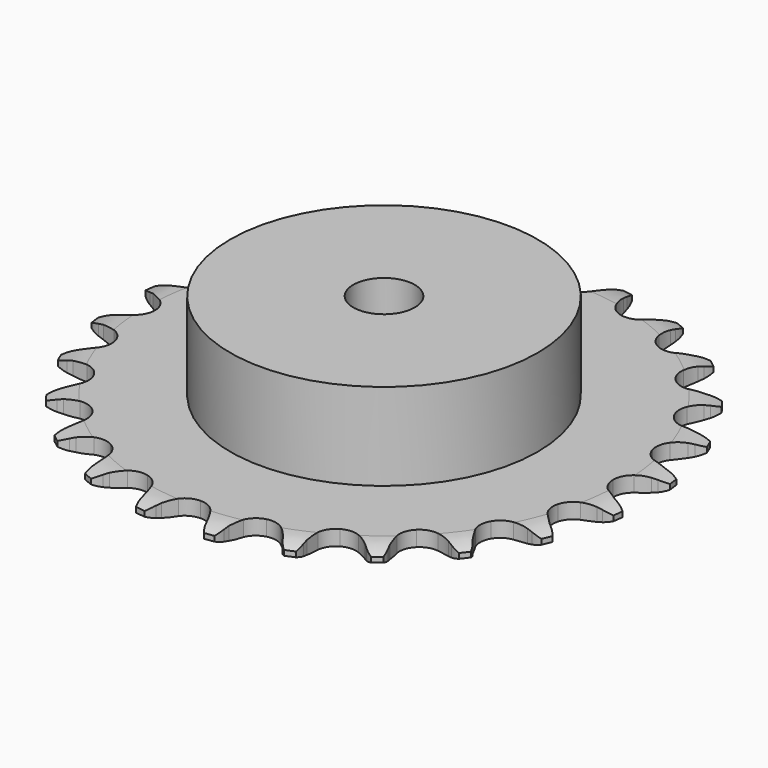
from build123d import *

# Parameters (mm, degrees)
PAD_DEPTH         = 3
SKETCH001_R       = 30
PAD001_DEPTH      = 20
SKETCH002_R       = 6
POCKET_DEPTH      = 0.001
POCKET_DEPTH_BACK = 20.001


with BuildPart() as part:
    # Sprocket → Pad (new body)
    with BuildSketch(Plane.XY):
        with BuildLine():
            ThreePointArc((-6.880361, 52.261529), (-5.693033, 51.063167), (-4.863176, 49.594441))
            Line((-4.863176, 49.594441), (-4.486878, 48.655213))
            ThreePointArc((-4.486878, 48.655213), (-3.885516, 47.408459), (-3.119842, 46.255301))
            ThreePointArc((-3.119842, 46.255301), (-1.739289, 45.12231), (0, 44.716765))
            ThreePointArc((0, 44.716765), (1.739289, 45.12231), (3.119842, 46.255301))
            ThreePointArc((3.119842, 46.255301), (3.885516, 47.408459), (4.486878, 48.655213))
            Line((4.486878, 48.655213), (4.863176, 49.594441))
            ThreePointArc((4.863176, 49.594441), (5.693033, 51.063167), (6.880361, 52.261529))
            ThreePointArc((6.880361, 52.261529), (7.717073, 50.796697), (8.138518, 49.163234))
            Line((8.138518, 49.163234), (8.258904, 48.158616))
            ThreePointArc((8.258904, 48.158616), (8.517092, 46.798701), (8.958217, 45.486664))
            ThreePointArc((8.958217, 45.486664), (9.998489, 44.034966), (11.57355, 43.193078))
            ThreePointArc((11.57355, 43.193078), (13.358538, 43.134643), (14.985289, 43.871715))
            Line((14.985289, 43.871715), (16.926887, 45.836037))
            ThreePointArc((16.926887, 45.836037), (17.220055, 46.248529), (17.533454, 46.645869))
            ThreePointArc((17.533454, 46.645869), (18.715168, 47.849766), (20.172197, 48.699992))
            ThreePointArc((20.172197, 48.699992), (20.601272, 47.068516), (20.585586, 45.381634))
            Line((20.585586, 45.381634), (20.441856, 44.380089))
            ThreePointArc((20.441856, 44.380089), (20.339274, 42.999688), (20.425788, 41.618186))
            ThreePointArc((20.425788, 41.618186), (21.054886, 39.946711), (22.358382, 38.725854))
            ThreePointArc((22.358382, 38.725854), (24.067424, 38.207422), (25.829513, 38.498344))
            Line((25.829513, 38.498344), (28.213357, 39.893211))
            ThreePointArc((28.213357, 39.893211), (28.603296, 40.21577), (29.008855, 40.518457))
            ThreePointArc((29.008855, 40.518457), (30.461895, 41.375483), (32.089332, 41.819631))
            ThreePointArc((32.089332, 41.819631), (32.081529, 40.132694), (31.62978, 38.50735))
            Line((31.62978, 38.50735), (31.231729, 37.577133))
            ThreePointArc((31.231729, 37.577133), (30.775369, 36.270317), (30.501375, 34.913498))
            ThreePointArc((30.501375, 34.913498), (30.676428, 33.136155), (31.619527, 31.619527))
            ThreePointArc((31.619527, 31.619527), (33.136155, 30.676428), (34.913498, 30.501375))
            Line((34.913498, 30.501375), (37.577133, 31.231729))
            ThreePointArc((37.577133, 31.231729), (38.03727, 31.442373), (38.50735, 31.62978))
            ThreePointArc((38.50735, 31.62978), (40.132694, 32.081529), (41.819631, 32.089332))
            ThreePointArc((41.819631, 32.089332), (41.375483, 30.461895), (40.518457, 29.008855))
            Line((40.518457, 29.008855), (39.893211, 28.213357))
            ThreePointArc((39.893211, 28.213357), (39.114172, 27.069185), (38.498344, 25.829513))
            ThreePointArc((38.498344, 25.829513), (38.207422, 24.067424), (38.725854, 22.358382))
            ThreePointArc((38.725854, 22.358382), (39.946711, 21.054886), (41.618186, 20.425788))
            Line((41.618186, 20.425788), (44.380089, 20.441856))
            ThreePointArc((44.380089, 20.441856), (44.879066, 20.52623), (45.381634, 20.585586))
            ThreePointArc((45.381634, 20.585586), (47.068516, 20.601272), (48.699992, 20.172197))
            ThreePointArc((48.699992, 20.172197), (47.849766, 18.715168), (46.645869, 17.533454))
            Line((46.645869, 17.533454), (45.836037, 16.926887))
            ThreePointArc((45.836037, 16.926887), (44.78741, 16.023332), (43.871715, 14.985289))
            ThreePointArc((43.871715, 14.985289), (43.134643, 13.358538), (43.193078, 11.57355))
            ThreePointArc((43.193078, 11.57355), (44.034966, 9.998489), (45.486664, 8.958217))
            Line((45.486664, 8.958217), (48.158616, 8.258904))
            ThreePointArc((48.158616, 8.258904), (48.662428, 8.211259), (49.163234, 8.138518))
            ThreePointArc((49.163234, 8.138518), (50.796697, 7.717073), (52.261529, 6.880361))
            ThreePointArc((52.261529, 6.880361), (51.063167, 5.693033), (49.594441, 4.863176))
            Line((49.594441, 4.863176), (48.655213, 4.486878))
            ThreePointArc((48.655213, 4.486878), (47.408459, 3.885516), (46.255301, 3.119842))
            ThreePointArc((46.255301, 3.119842), (45.12231, 1.739289), (44.716765, 0))
            ThreePointArc((44.716765, 0), (45.12231, -1.739289), (46.255301, -3.119842))
            Line((46.255301, -3.119842), (48.655213, -4.486878))
            ThreePointArc((48.655213, -4.486878), (49.129527, -4.663296), (49.594441, -4.863176))
            ThreePointArc((49.594441, -4.863176), (51.063167, -5.693033), (52.261529, -6.880361))
            ThreePointArc((52.261529, -6.880361), (50.796697, -7.717073), (49.163234, -8.138518))
            Line((49.163234, -8.138518), (48.158616, -8.258904))
            ThreePointArc((48.158616, -8.258904), (46.798701, -8.517092), (45.486664, -8.958217))
            ThreePointArc((45.486664, -8.958217), (44.034966, -9.998489), (43.193078, -11.57355))
            ThreePointArc((43.193078, -11.57355), (43.134643, -13.358538), (43.871715, -14.985289))
            Line((43.871715, -14.985289), (45.836037, -16.926887))
            ThreePointArc((45.836037, -16.926887), (46.248529, -17.220055), (46.645869, -17.533454))
            ThreePointArc((46.645869, -17.533454), (47.849766, -18.715168), (48.699992, -20.172197))
            ThreePointArc((48.699992, -20.172197), (47.068516, -20.601272), (45.381634, -20.585586))
            Line((45.381634, -20.585586), (44.380089, -20.441856))
            ThreePointArc((44.380089, -20.441856), (42.999688, -20.339274), (41.618186, -20.425788))
            ThreePointArc((41.618186, -20.425788), (39.946711, -21.054886), (38.725854, -22.358382))
            ThreePointArc((38.725854, -22.358382), (38.207422, -24.067424), (38.498344, -25.829513))
            Line((38.498344, -25.829513), (39.893211, -28.213357))
            ThreePointArc((39.893211, -28.213357), (40.21577, -28.603296), (40.518457, -29.008855))
            ThreePointArc((40.518457, -29.008855), (41.375483, -30.461895), (41.819631, -32.089332))
            ThreePointArc((41.819631, -32.089332), (40.132694, -32.081529), (38.50735, -31.62978))
            Line((38.50735, -31.62978), (37.577133, -31.231729))
            ThreePointArc((37.577133, -31.231729), (36.270317, -30.775369), (34.913498, -30.501375))
            ThreePointArc((34.913498, -30.501375), (33.136155, -30.676428), (31.619527, -31.619527))
            ThreePointArc((31.619527, -31.619527), (30.676428, -33.136155), (30.501375, -34.913498))
            Line((30.501375, -34.913498), (31.231729, -37.577133))
            ThreePointArc((31.231729, -37.577133), (31.442373, -38.03727), (31.62978, -38.50735))
            ThreePointArc((31.62978, -38.50735), (32.081529, -40.132694), (32.089332, -41.819631))
            ThreePointArc((32.089332, -41.819631), (30.461895, -41.375483), (29.008855, -40.518457))
            Line((29.008855, -40.518457), (28.213357, -39.893211))
            ThreePointArc((28.213357, -39.893211), (27.069185, -39.114172), (25.829513, -38.498344))
            ThreePointArc((25.829513, -38.498344), (24.067424, -38.207422), (22.358382, -38.725854))
            ThreePointArc((22.358382, -38.725854), (21.054886, -39.946711), (20.425788, -41.618186))
            Line((20.425788, -41.618186), (20.441856, -44.380089))
            ThreePointArc((20.441856, -44.380089), (20.52623, -44.879066), (20.585586, -45.381634))
            ThreePointArc((20.585586, -45.381634), (20.601272, -47.068516), (20.172197, -48.699992))
            ThreePointArc((20.172197, -48.699992), (18.715168, -47.849766), (17.533454, -46.645869))
            Line((17.533454, -46.645869), (16.926887, -45.836037))
            ThreePointArc((16.926887, -45.836037), (16.023332, -44.78741), (14.985289, -43.871715))
            ThreePointArc((14.985289, -43.871715), (13.358538, -43.134643), (11.57355, -43.193078))
            ThreePointArc((11.57355, -43.193078), (9.998489, -44.034966), (8.958217, -45.486664))
            Line((8.958217, -45.486664), (8.258904, -48.158616))
            ThreePointArc((8.258904, -48.158616), (8.211259, -48.662428), (8.138518, -49.163234))
            ThreePointArc((8.138518, -49.163234), (7.717073, -50.796697), (6.880361, -52.261529))
            ThreePointArc((6.880361, -52.261529), (5.693033, -51.063167), (4.863176, -49.594441))
            Line((4.863176, -49.594441), (4.486878, -48.655213))
            ThreePointArc((4.486878, -48.655213), (3.885516, -47.408459), (3.119842, -46.255301))
            ThreePointArc((3.119842, -46.255301), (1.739289, -45.12231), (0, -44.716765))
            ThreePointArc((0, -44.716765), (-1.739289, -45.12231), (-3.119842, -46.255301))
            Line((-3.119842, -46.255301), (-4.486878, -48.655213))
            ThreePointArc((-4.486878, -48.655213), (-4.663296, -49.129527), (-4.863176, -49.594441))
            ThreePointArc((-4.863176, -49.594441), (-5.693033, -51.063167), (-6.880361, -52.261529))
            ThreePointArc((-6.880361, -52.261529), (-7.717073, -50.796697), (-8.138518, -49.163234))
            Line((-8.138518, -49.163234), (-8.258904, -48.158616))
            ThreePointArc((-8.258904, -48.158616), (-8.517092, -46.798701), (-8.958217, -45.486664))
            ThreePointArc((-8.958217, -45.486664), (-9.998489, -44.034966), (-11.57355, -43.193078))
            ThreePointArc((-11.57355, -43.193078), (-13.358538, -43.134643), (-14.985289, -43.871715))
            Line((-14.985289, -43.871715), (-16.926887, -45.836037))
            ThreePointArc((-16.926887, -45.836037), (-17.220055, -46.248529), (-17.533454, -46.645869))
            ThreePointArc((-17.533454, -46.645869), (-18.715168, -47.849766), (-20.172197, -48.699992))
            ThreePointArc((-20.172197, -48.699992), (-20.601272, -47.068516), (-20.585586, -45.381634))
            Line((-20.585586, -45.381634), (-20.441856, -44.380089))
            ThreePointArc((-20.441856, -44.380089), (-20.339274, -42.999688), (-20.425788, -41.618186))
            ThreePointArc((-20.425788, -41.618186), (-21.054886, -39.946711), (-22.358382, -38.725854))
            ThreePointArc((-22.358382, -38.725854), (-24.067424, -38.207422), (-25.829513, -38.498344))
            Line((-25.829513, -38.498344), (-28.213357, -39.893211))
            ThreePointArc((-28.213357, -39.893211), (-28.603296, -40.21577), (-29.008855, -40.518457))
            ThreePointArc((-29.008855, -40.518457), (-30.461895, -41.375483), (-32.089332, -41.819631))
            ThreePointArc((-32.089332, -41.819631), (-32.081529, -40.132694), (-31.62978, -38.50735))
            Line((-31.62978, -38.50735), (-31.231729, -37.577133))
            ThreePointArc((-31.231729, -37.577133), (-30.775369, -36.270317), (-30.501375, -34.913498))
            ThreePointArc((-30.501375, -34.913498), (-30.676428, -33.136155), (-31.619527, -31.619527))
            ThreePointArc((-31.619527, -31.619527), (-33.136155, -30.676428), (-34.913498, -30.501375))
            Line((-34.913498, -30.501375), (-37.577133, -31.231729))
            ThreePointArc((-37.577133, -31.231729), (-38.03727, -31.442373), (-38.50735, -31.62978))
            ThreePointArc((-38.50735, -31.62978), (-40.132694, -32.081529), (-41.819631, -32.089332))
            ThreePointArc((-41.819631, -32.089332), (-41.375483, -30.461895), (-40.518457, -29.008855))
            Line((-40.518457, -29.008855), (-39.893211, -28.213357))
            ThreePointArc((-39.893211, -28.213357), (-39.114172, -27.069185), (-38.498344, -25.829513))
            ThreePointArc((-38.498344, -25.829513), (-38.207422, -24.067424), (-38.725854, -22.358382))
            ThreePointArc((-38.725854, -22.358382), (-39.946711, -21.054886), (-41.618186, -20.425788))
            Line((-41.618186, -20.425788), (-44.380089, -20.441856))
            ThreePointArc((-44.380089, -20.441856), (-44.879066, -20.52623), (-45.381634, -20.585586))
            ThreePointArc((-45.381634, -20.585586), (-47.068516, -20.601272), (-48.699992, -20.172197))
            ThreePointArc((-48.699992, -20.172197), (-47.849766, -18.715168), (-46.645869, -17.533454))
            Line((-46.645869, -17.533454), (-45.836037, -16.926887))
            ThreePointArc((-45.836037, -16.926887), (-44.78741, -16.023332), (-43.871715, -14.985289))
            ThreePointArc((-43.871715, -14.985289), (-43.134643, -13.358538), (-43.193078, -11.57355))
            ThreePointArc((-43.193078, -11.57355), (-44.034966, -9.998489), (-45.486664, -8.958217))
            Line((-45.486664, -8.958217), (-48.158616, -8.258904))
            ThreePointArc((-48.158616, -8.258904), (-48.662428, -8.211259), (-49.163234, -8.138518))
            ThreePointArc((-49.163234, -8.138518), (-50.796697, -7.717073), (-52.261529, -6.880361))
            ThreePointArc((-52.261529, -6.880361), (-51.063167, -5.693033), (-49.594441, -4.863176))
            Line((-49.594441, -4.863176), (-48.655213, -4.486878))
            ThreePointArc((-48.655213, -4.486878), (-47.408459, -3.885516), (-46.255301, -3.119842))
            ThreePointArc((-46.255301, -3.119842), (-45.12231, -1.739289), (-44.716765, 0))
            ThreePointArc((-44.716765, 0), (-45.12231, 1.739289), (-46.255301, 3.119842))
            Line((-46.255301, 3.119842), (-48.655213, 4.486878))
            ThreePointArc((-48.655213, 4.486878), (-49.129527, 4.663296), (-49.594441, 4.863176))
            ThreePointArc((-49.594441, 4.863176), (-51.063167, 5.693033), (-52.261529, 6.880361))
            ThreePointArc((-52.261529, 6.880361), (-50.796697, 7.717073), (-49.163234, 8.138518))
            Line((-49.163234, 8.138518), (-48.158616, 8.258904))
            ThreePointArc((-48.158616, 8.258904), (-46.798701, 8.517092), (-45.486664, 8.958217))
            ThreePointArc((-45.486664, 8.958217), (-44.034966, 9.998489), (-43.193078, 11.57355))
            ThreePointArc((-43.193078, 11.57355), (-43.134643, 13.358538), (-43.871715, 14.985289))
            Line((-43.871715, 14.985289), (-45.836037, 16.926887))
            ThreePointArc((-45.836037, 16.926887), (-46.248529, 17.220055), (-46.645869, 17.533454))
            ThreePointArc((-46.645869, 17.533454), (-47.849766, 18.715168), (-48.699992, 20.172197))
            ThreePointArc((-48.699992, 20.172197), (-47.068516, 20.601272), (-45.381634, 20.585586))
            Line((-45.381634, 20.585586), (-44.380089, 20.441856))
            ThreePointArc((-44.380089, 20.441856), (-42.999688, 20.339274), (-41.618186, 20.425788))
            ThreePointArc((-41.618186, 20.425788), (-39.946711, 21.054886), (-38.725854, 22.358382))
            ThreePointArc((-38.725854, 22.358382), (-38.207422, 24.067424), (-38.498344, 25.829513))
            Line((-38.498344, 25.829513), (-39.893211, 28.213357))
            ThreePointArc((-39.893211, 28.213357), (-40.21577, 28.603296), (-40.518457, 29.008855))
            ThreePointArc((-40.518457, 29.008855), (-41.375483, 30.461895), (-41.819631, 32.089332))
            ThreePointArc((-41.819631, 32.089332), (-40.132694, 32.081529), (-38.50735, 31.62978))
            Line((-38.50735, 31.62978), (-37.577133, 31.231729))
            ThreePointArc((-37.577133, 31.231729), (-36.270317, 30.775369), (-34.913498, 30.501375))
            ThreePointArc((-34.913498, 30.501375), (-33.136155, 30.676428), (-31.619527, 31.619527))
            ThreePointArc((-31.619527, 31.619527), (-30.676428, 33.136155), (-30.501375, 34.913498))
            Line((-30.501375, 34.913498), (-31.231729, 37.577133))
            ThreePointArc((-31.231729, 37.577133), (-31.442373, 38.03727), (-31.62978, 38.50735))
            ThreePointArc((-31.62978, 38.50735), (-32.081529, 40.132694), (-32.089332, 41.819631))
            ThreePointArc((-32.089332, 41.819631), (-30.461895, 41.375483), (-29.008855, 40.518457))
            Line((-29.008855, 40.518457), (-28.213357, 39.893211))
            ThreePointArc((-28.213357, 39.893211), (-27.069185, 39.114172), (-25.829513, 38.498344))
            ThreePointArc((-25.829513, 38.498344), (-24.067424, 38.207422), (-22.358382, 38.725854))
            ThreePointArc((-22.358382, 38.725854), (-21.054886, 39.946711), (-20.425788, 41.618186))
            Line((-20.425788, 41.618186), (-20.441856, 44.380089))
            ThreePointArc((-20.441856, 44.380089), (-20.52623, 44.879066), (-20.585586, 45.381634))
            ThreePointArc((-20.585586, 45.381634), (-20.601272, 47.068516), (-20.172197, 48.699992))
            ThreePointArc((-20.172197, 48.699992), (-18.715168, 47.849766), (-17.533454, 46.645869))
            Line((-17.533454, 46.645869), (-16.926887, 45.836037))
            ThreePointArc((-16.926887, 45.836037), (-16.023332, 44.78741), (-14.985289, 43.871715))
            ThreePointArc((-14.985289, 43.871715), (-13.358538, 43.134643), (-11.57355, 43.193078))
            ThreePointArc((-11.57355, 43.193078), (-9.998489, 44.034966), (-8.958217, 45.486664))
            Line((-8.958217, 45.486664), (-8.258904, 48.158616))
            ThreePointArc((-8.258904, 48.158616), (-8.211259, 48.662428), (-8.138518, 49.163234))
            ThreePointArc((-8.138518, 49.163234), (-7.717073, 50.796697), (-6.880361, 52.261529))
        make_face()
    extrude(amount=PAD_DEPTH)

    # Sketch → Groove (revolve, cut)
    with BuildSketch(Plane.XZ):
        with BuildLine():
            Line((46.5, 0), (51.5, 0))
            Line((56.5, 0), (51.5, 0))
            Line((56.5, 3), (56.5, 0))
            Line((51.5, 3), (56.5, 3))
            Line((46.5, 3), (51.5, 3))
            ThreePointArc((51.5, 2), (49.04951, 2.747549), (46.5, 3))
            Line((51.5, 1), (51.5, 2))
            ThreePointArc((46.5, 0), (49.04951, 0.252451), (51.5, 1))
        make_face()
    revolve(axis=Axis((0, 0, 0), (0, 0, 1)), mode=Mode.SUBTRACT)

    # Sketch001 → Pad001 (join)
    with BuildSketch(Plane.XY):
        Circle(SKETCH001_R)
    extrude(amount=PAD001_DEPTH)

    # Sketch002 → Pocket (cut, two sides)
    with BuildSketch(Plane.XY) as pocket_sk:
        Circle(SKETCH002_R)
    extrude(amount=-POCKET_DEPTH, mode=Mode.SUBTRACT)
    extrude(pocket_sk.sketch, amount=POCKET_DEPTH_BACK, mode=Mode.SUBTRACT)


solid = part.part
